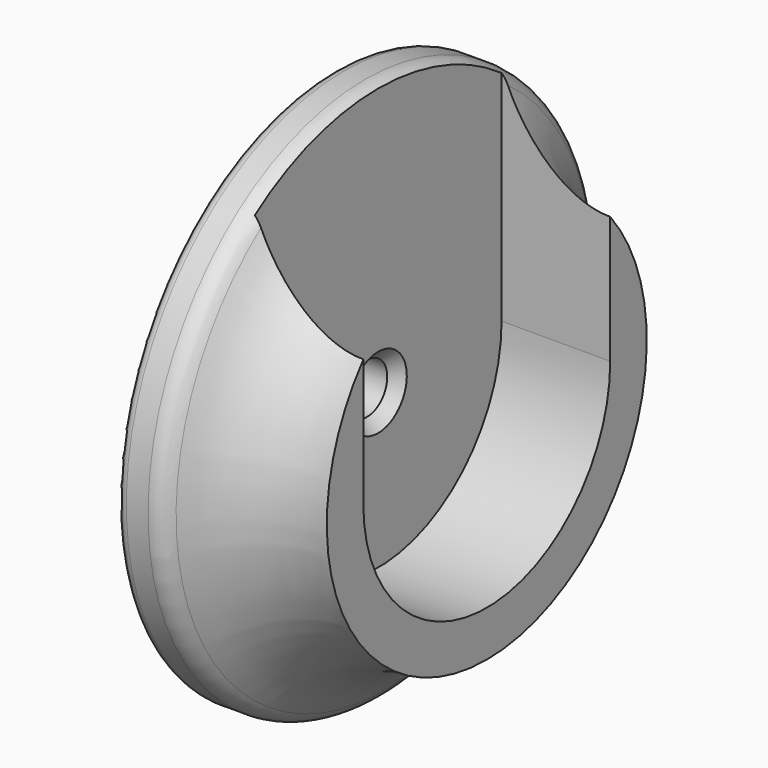
from build123d import *

# Parameters (mm, degrees)
F3_DEPTH = 12.7


with BuildPart() as f1:
    # F0 (on Front) → F1 (revolve)
    with BuildSketch(Plane.XZ):
        with BuildLine():
            Line((0, 30.48), (0, 2.921))
            Line((0, 2.921), (4.02617, 2.921))
            Line((4.02617, 2.921), (5.29617, 4.191))
            Line((5.29617, 4.191), (5.29617, 18.034))
            Line((5.29617, 18.034), (17.99617, 18.034))
            Line((17.99617, 18.034), (17.99617, 23.368))
            ThreePointArc((17.99617, 23.368), (11.049548, 25.266883), (6.034837, 30.435439))
            ThreePointArc((6.034837, 30.435439), (5.102088, 31.396803), (3.81, 31.75))
            Line((3.81, 31.75), (1.27, 31.75))
            ThreePointArc((1.27, 31.75), (0.371974, 31.378026), (0, 30.48))
        make_face()
    revolve(axis=Axis((18.239362, 0, 0), (1, 0, 0)))

    # F2 (on face) → F3 (cut, through all)
    with BuildSketch(Plane.YZ.offset(17.99617)):
        with BuildLine():
            Line((-18.034, 36.491495), (-18.034, 0))
            ThreePointArc((-18.034, 0), (0, -18.034), (18.034, 0))
            Line((18.034, 0), (18.034, 36.491495))
            Line((18.034, 36.491495), (-18.034, 36.491495))
        make_face()
    extrude(amount=-F3_DEPTH, mode=Mode.SUBTRACT)


solid = f1.part
